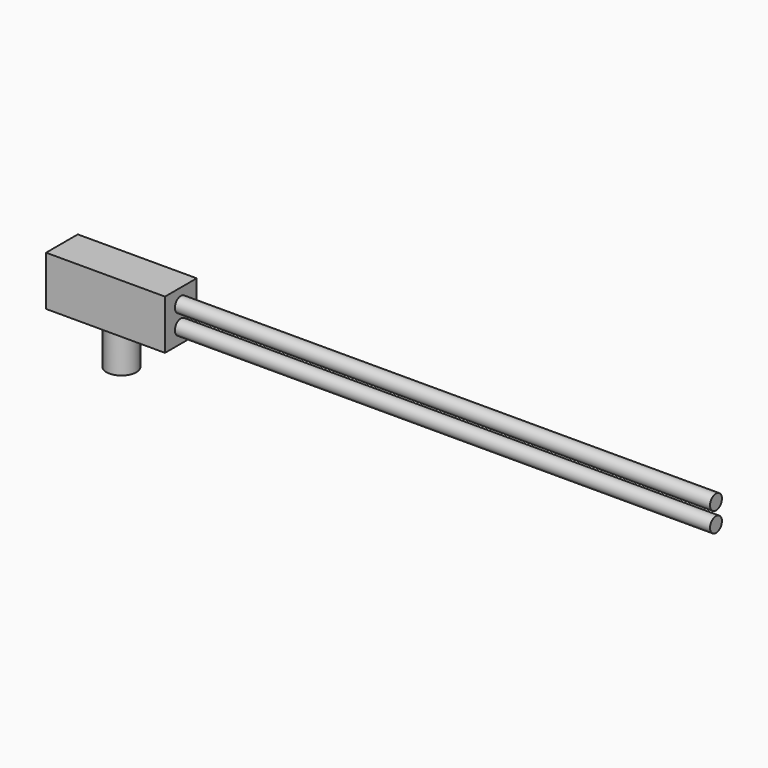
from build123d import *

# Parameters (mm, degrees)
F0_W     = 25.4
F0_H     = 31.75
F0_R     = 4.7625
F1_DEPTH = 38.1
F2_DEPTH = 381
F3_R     = 9.525
F4_DEPTH = 25.4


with BuildPart() as f1:
    # F0 (on Right) → F1 (new body, symmetric)
    with BuildSketch(Plane.YZ):
        Rectangle(F0_W, F0_H)
        with Locations((0, -6.35)):
            Circle(F0_R, mode=Mode.SUBTRACT)
        with Locations((0, 6.35)):
            Circle(F0_R, mode=Mode.SUBTRACT)
    extrude(amount=F1_DEPTH, both=True)

    # F3 (on face) → F4 (join)
    with BuildSketch(Plane(origin=(0, 0, -15.875), x_dir=(1, 0, 0), z_dir=(0, 0, -1))):
        Circle(F3_R)
    extrude(amount=F4_DEPTH)


with BuildPart() as f2:
    # F0 (on Right) → F2 (new body)
    with BuildSketch(Plane.YZ):
        with Locations((0, 6.35)):
            Circle(F0_R)
    extrude(amount=F2_DEPTH)


with BuildPart() as f2b:
    # F0 (on Right) → F2, piece 2 (new body)
    with BuildSketch(Plane.YZ):
        with Locations((0, -6.35)):
            Circle(F0_R)
    extrude(amount=F2_DEPTH)


solid = Compound([f1.part, f2.part, f2b.part])
